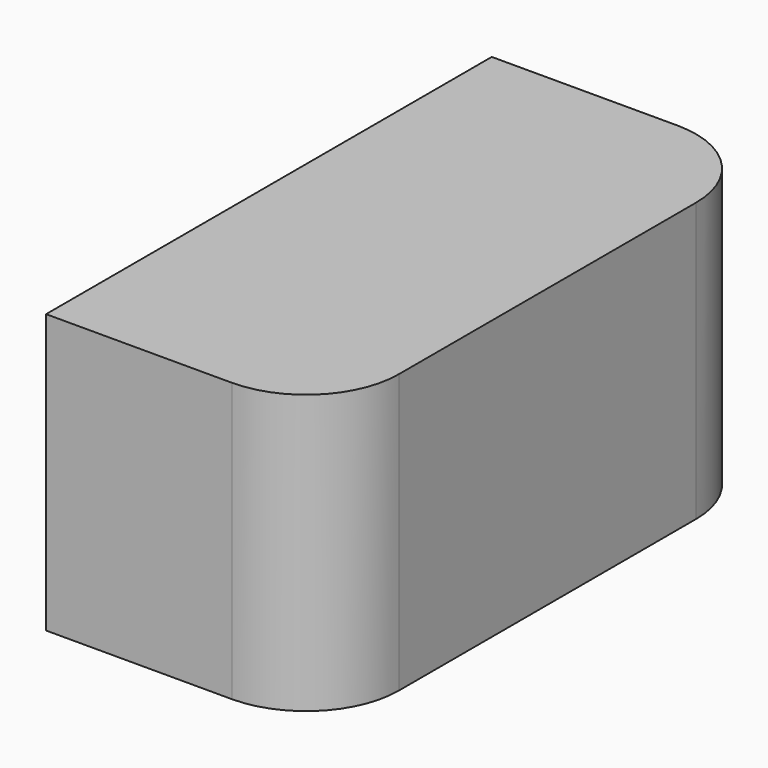
from build123d import *

# Parameters (mm, degrees)
F1_DEPTH = 1.5875
F3_DEPTH = 19.05


with BuildPart() as f1:
    # F0 (on Top) → F1 (new body)
    with BuildSketch(Plane.XY):
        with BuildLine():
            Line((40.410568, 15.044903), (27.710568, 15.044903))
            Line((27.710568, 15.044903), (27.710568, -23.055097))
            Line((27.710568, -23.055097), (40.410568, -23.055097))
            ThreePointArc((40.410568, -23.055097), (44.900696, -21.195225), (46.760568, -16.705097))
            Line((46.760568, -16.705097), (46.760568, 8.694903))
            ThreePointArc((46.760568, 8.694903), (44.900696, 13.185031), (40.410568, 15.044903))
        make_face()
    extrude(amount=F1_DEPTH)

    # F2 (on face) → F3 (join)
    with BuildSketch(Plane.XY.offset(1.5875)):
        with BuildLine():
            Line((27.710568, 15.044903), (27.710568, 13.457403))
            Line((27.710568, 13.457403), (38.823068, 13.457403))
            ThreePointArc((38.823068, 13.457403), (43.313196, 11.597531), (45.173068, 7.107403))
            Line((45.173068, 7.107403), (45.173068, -15.117597))
            ThreePointArc((45.173068, -15.117597), (43.313196, -19.607725), (38.823068, -21.467597))
            Line((38.823068, -21.467597), (27.710568, -21.467597))
            Line((27.710568, -21.467597), (27.710568, -23.055097))
            Line((27.710568, -23.055097), (40.410568, -23.055097))
            ThreePointArc((40.410568, -23.055097), (44.900696, -21.195225), (46.760568, -16.705097))
            Line((46.760568, -16.705097), (46.760568, 8.694903))
            ThreePointArc((46.760568, 8.694903), (44.900696, 13.185031), (40.410568, 15.044903))
            Line((40.410568, 15.044903), (27.710568, 15.044903))
        make_face()
    extrude(amount=-F3_DEPTH)


solid = f1.part
